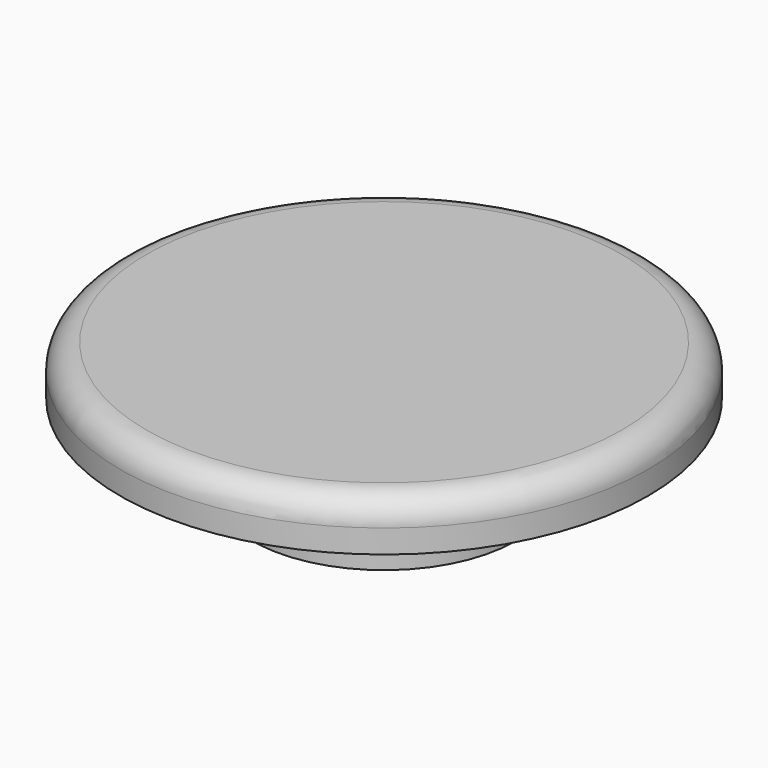
from build123d import *

# Parameters (mm, degrees)
F2_R = 0.79375


with BuildPart() as f1:
    # F0 (on Front) → F1 (revolve)
    with BuildSketch(Plane.XZ):
        Polygon((8, 4), (0, 4), (0, 0), (4, 0), (4, 2), (5, 2), (5, 2.5), (8, 2.5), align=None)
    revolve(axis=Axis((0, 0, 2), (0, 0, -1)))

    # F2
    f2_edges = [f1.edges().sort_by_distance(p)[0] for p in [
        (-8, 0, 4),
    ]]
    fillet(f2_edges, radius=F2_R)


solid = f1.part
